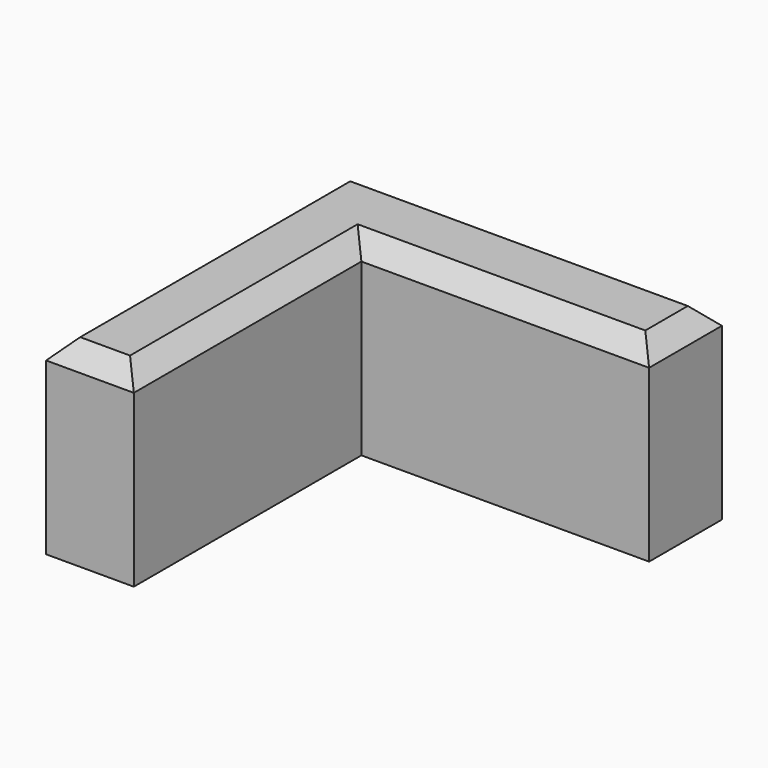
from build123d import *

# Parameters (mm, degrees)
F1_DEPTH = 5
F2_SIZE  = 0.5


with BuildPart() as f1:
    # F0 (on Top) → F1 (new body)
    with BuildSketch(Plane.XY):
        Polygon((7.540033, 2.399997), (-2.359967, 2.399997), (-2.359967, -7.500003), (-0.04621, -7.500003), (-0.04621, -3e-06), (7.540033, -3e-06), align=None)
    extrude(amount=F1_DEPTH)

    # F2
    f2_edges = [f1.edges().sort_by_distance(p)[0] for p in [
        (7.540033, 1.199997, 5),
        (2.590033, 2.399997, 5),
        (-2.359967, -2.550003, 5),
        (-1.203089, -7.500003, 5),
        (-0.04621, -3.750003, 5),
        (3.746911, -3e-06, 5),
    ]]
    chamfer(f2_edges, length=F2_SIZE)


solid = f1.part
